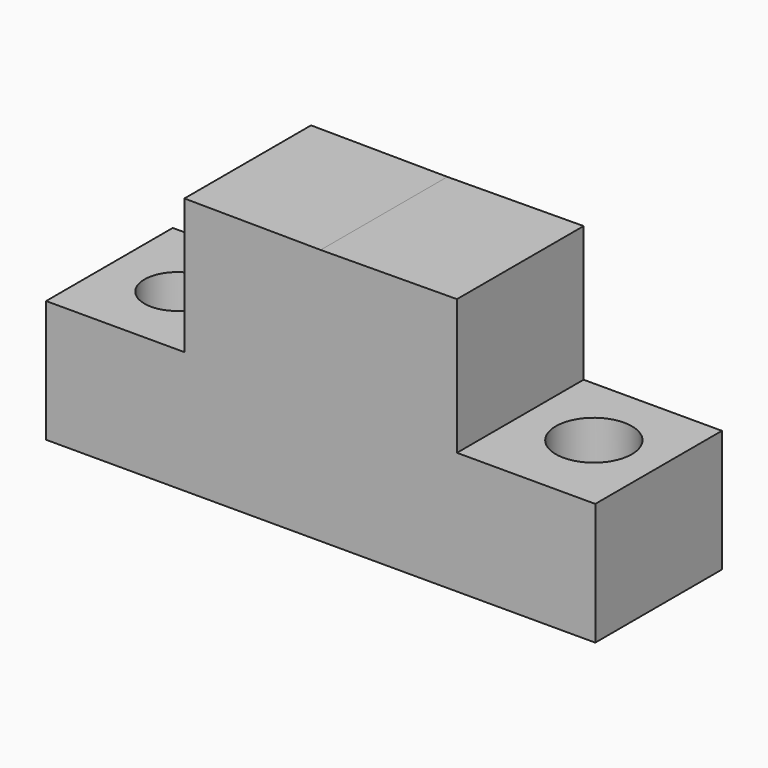
from build123d import *

# Parameters (mm, degrees)
F1_DEPTH = 25.4
F3_DEPTH = 25.4
F4_R     = 6.100082
F6_DEPTH = 50.8
F2_R     = 5.287895
F8_DEPTH = 25.4


with BuildPart() as f1:
    # F0 (on Front) → F1 (new body)
    with BuildSketch(Plane.XZ):
        Polygon((0, 21.703117), (0, 0), (-22.189008, 0), (-22.189008, -19.597592), (10.689595, -19.597592), (21.865079, -19.597592), (21.865079, 21.541156), align=None)
    extrude(amount=F1_DEPTH)

    # F0 (on Front) → F3 (join)
    with BuildSketch(Plane.XZ):
        Polygon((0, 21.703117), (0, 0), (-22.189008, 0), (-22.189008, -19.597592), (10.689595, -19.597592), (21.865079, -19.597592), (21.865079, 21.541156), align=None)
        Polygon((43.730158, 21.703117), (21.865079, 21.541156), (21.865079, -19.597592), (33.040564, -19.597592), (65.919166, -19.597592), (65.919166, 0), (43.730158, 0), align=None)
    extrude(amount=F3_DEPTH)

    # F4 (on Top) → F6 (cut)
    with BuildSketch(Plane.XY):
        with Locations((54.988019, -12.019237)):
            Circle(F4_R)
    extrude(amount=-F6_DEPTH, mode=Mode.SUBTRACT)

    # F2 (on Top) → F8 (cut)
    with BuildSketch(Plane.XY):
        with Locations((-10.94509, -13.110346)):
            Circle(F2_R)
    extrude(amount=-F8_DEPTH, mode=Mode.SUBTRACT)


solid = f1.part
